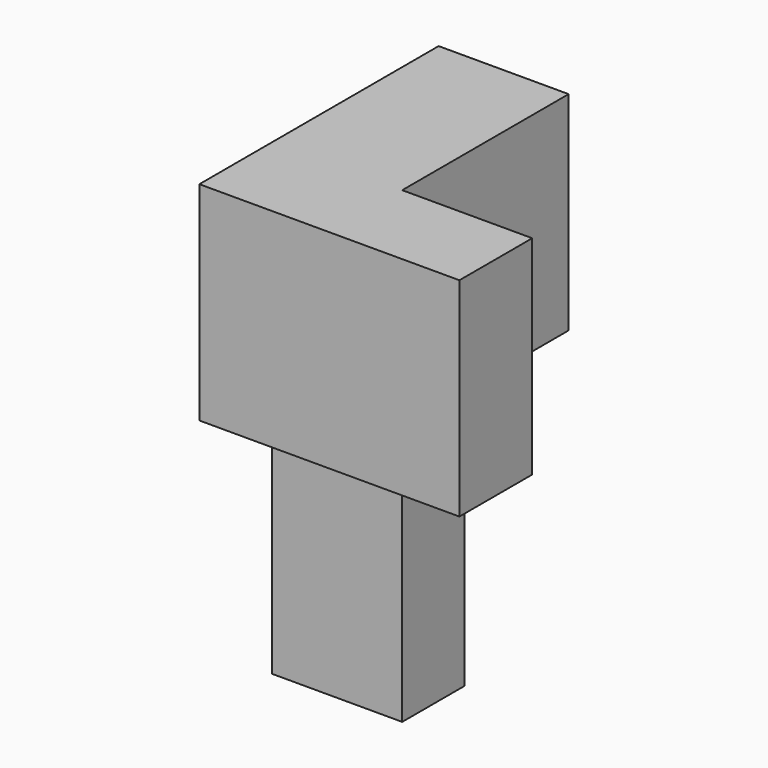
from build123d import *

# Parameters (mm, degrees)
F0_W     = 40.64
F0_H     = 40.64
F0_W_2   = 17.78
F1_DEPTH = 25.4
F2_DEPTH = 25.4
F3_W     = 25.4
F3_H     = 15.24
F4_DEPTH = 50.8


with BuildPart() as f1:
    # F0 (on Right) → F1 (new body)
    with BuildSketch(Plane.YZ):
        with Locations((-32.078979, 27.665098)):
            Rectangle(F0_W, F0_H)
        with Locations((-61.288979, 27.665098)):
            Rectangle(F0_W_2, F0_H)
    extrude(amount=-F1_DEPTH)

    # F0 (on Right) → F2 (join)
    with BuildSketch(Plane.YZ):
        with Locations((-61.288979, 27.665098)):
            Rectangle(F0_W_2, F0_H)
    extrude(amount=F2_DEPTH)

    # F3 (on face) → F4 (join)
    with BuildSketch(Plane(origin=(0, 0, 7.345098), x_dir=(1, 0, 0), z_dir=(0, 0, -1))):
        with Locations((-12.7, 44.778979)):
            Rectangle(F3_W, F3_H)
    extrude(amount=F4_DEPTH)


solid = f1.part
